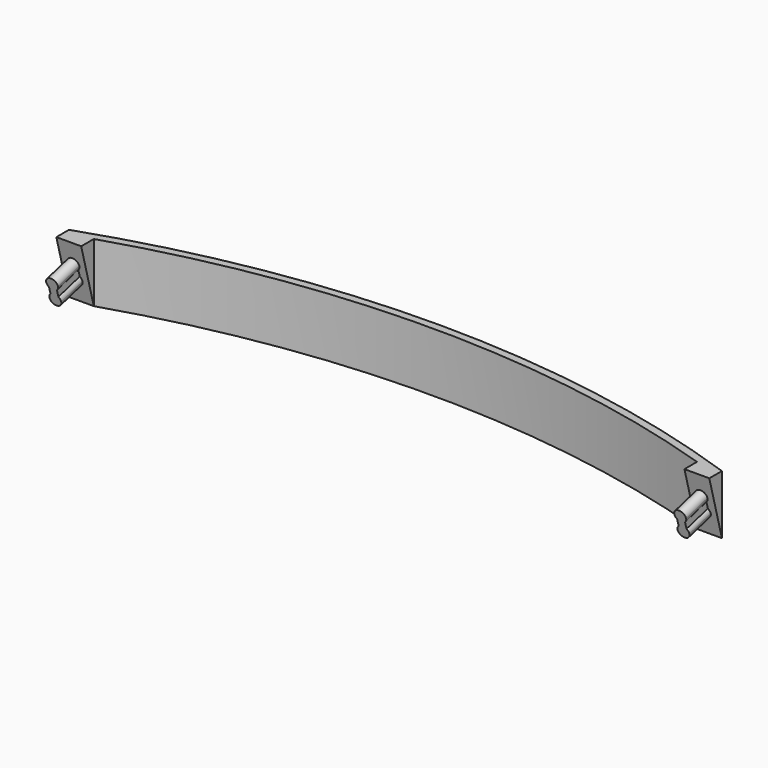
from build123d import *

# Parameters (mm, degrees)
F1_DEPTH = 15
F2_DEPTH = 4
F4_DEPTH = 250
F6_DEPTH = 7


with BuildPart() as f1:
    # F0 (on Top) → F1 (new body)
    with BuildSketch(Plane.XY):
        with BuildLine():
            ThreePointArc((-76.5, -11.9921219791), (0, 0), (76.5, -11.9921219791))
            Line((76.5, -11.9921219791), (82.8024758084, -11.9921219791))
            ThreePointArc((82.8024758084, -11.9921219791), (0, 2), (-82.8024758084, -11.9921219791))
            Line((-82.8024758084, -11.9921219791), (-76.5, -11.9921219791))
        make_face()
    extrude(amount=F1_DEPTH)

    # F2 (add): faces of the model
    f2_faces = [f1.faces().sort_by_distance(p)[0] for p in [
        (-79.6512379042, -11.9921219791, 7.5),
        (79.6512379042, -11.9921219791, 7.5),
    ]]
    extrude(f2_faces, amount=F2_DEPTH)

    # F3 (on face) → F4 (cut)
    with BuildSketch(Plane.YZ.offset(82.8024758084)):
        Polygon((-11.9921219791, 0), (-15.9921219791, 15), (-15.9921219791, 0), align=None)
    extrude(amount=-F4_DEPTH, mode=Mode.SUBTRACT)

    # F5 (on face) → F6 (join)
    with BuildSketch(Plane(origin=(0, -11.1959645033, -2.9855905342), x_dir=(1, 0, 0), z_dir=(0, -0.9662349396, -0.2576626506))):
        with BuildLine():
            ThreePointArc((-80.6512379042, 9.9700432719), (-80.2636103399, 7.4827028894), (-78.1512379042, 8.8520092831))
            ThreePointArc((-78.1512379042, 8.8520092831), (-78.2819315104, 9.4643817188), (-78.6512379042, 9.9700432719))
            ThreePointArc((-78.6512379042, 9.9700432719), (-79.6512379042, 10.3520092831), (-80.6512379042, 9.9700432719))
        make_face()
        with BuildLine():
            ThreePointArc((-80.6512379042, 9.9700432719), (-79.6512379042, 10.3520092831), (-78.6512379042, 9.9700432719))
            Line((-78.6512379042, 9.9700432719), (-78.6512379042, 11.7339752944))
            ThreePointArc((-78.6512379042, 11.7339752944), (-79.6512379042, 11.3520092831), (-80.6512379042, 11.7339752944))
            Line((-80.6512379042, 11.7339752944), (-80.6512379042, 9.9700432719))
        make_face()
        with BuildLine():
            ThreePointArc((-80.6512379042, 11.7339752944), (-79.6512379042, 11.3520092831), (-78.6512379042, 11.7339752944))
            ThreePointArc((-78.6512379042, 11.7339752944), (-78.2819315104, 12.2396368474), (-78.1512379042, 12.8520092831))
            ThreePointArc((-78.1512379042, 12.8520092831), (-80.2636103399, 14.2213156769), (-80.6512379042, 11.7339752944))
        make_face()
        with BuildLine():
            ThreePointArc((80.6512379042, 9.9700432719), (79.6512379042, 10.3520092831), (78.6512379042, 9.9700432719))
            ThreePointArc((78.6512379042, 9.9700432719), (79.0388654685, 7.4827028894), (81.1512379042, 8.8520092831))
            ThreePointArc((81.1512379042, 8.8520092831), (81.020544298, 9.4643817188), (80.6512379042, 9.9700432719))
        make_face()
        with BuildLine():
            Line((78.6512379042, 11.7339752944), (78.6512379042, 9.9700432719))
            ThreePointArc((78.6512379042, 9.9700432719), (79.6512379042, 10.3520092831), (80.6512379042, 9.9700432719))
            Line((80.6512379042, 9.9700432719), (80.6512379042, 11.7339752944))
            ThreePointArc((80.6512379042, 11.7339752944), (79.6512379042, 11.3520092831), (78.6512379042, 11.7339752944))
        make_face()
        with BuildLine():
            ThreePointArc((81.1512379042, 12.8520092831), (79.0388654685, 14.2213156769), (78.6512379042, 11.7339752944))
            ThreePointArc((78.6512379042, 11.7339752944), (79.6512379042, 11.3520092831), (80.6512379042, 11.7339752944))
            ThreePointArc((80.6512379042, 11.7339752944), (81.020544298, 12.2396368474), (81.1512379042, 12.8520092831))
        make_face()
    extrude(amount=F6_DEPTH)


solid = f1.part
